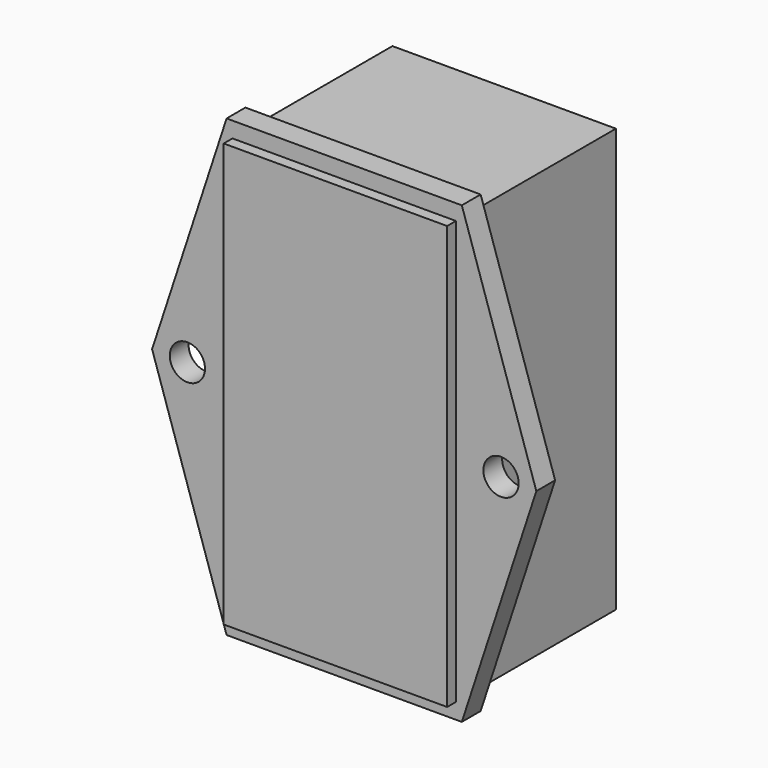
from build123d import *

# Parameters (mm, degrees)
F0_R          = 2.25
F1_DEPTH      = 3
F0_W          = 14.25
F0_H          = 54
F2_DEPTH      = 22.5
F2_DEPTH_BACK = 4.4


with BuildPart() as f1:
    # F0 (on Front) → F1 (new body)
    with BuildSketch(Plane.XZ):
        Polygon((15, 29), (-15, 29), (-24.5, 0), (-15, -29), (15, -29), (24.5, 0), align=None)
        with Locations((-20, 0)):
            Circle(F0_R, mode=Mode.SUBTRACT)
        Polygon((-14.25, 27), (0, 27), (14.25, 27), (14.25, -27), (0, -27), (-14.25, -27), align=None, mode=Mode.SUBTRACT)
        with Locations((20, 0.1457222243)):
            Circle(F0_R, mode=Mode.SUBTRACT)
    extrude(amount=F1_DEPTH)

    # F0 (on Front) → F2 (join, two sides)
    with BuildSketch(Plane.XZ) as f2_sk:
        with Locations((-7.125, 0)):
            Rectangle(F0_W, F0_H)
        with Locations((7.125, 0)):
            Rectangle(F0_W, F0_H)
    extrude(amount=-F2_DEPTH)
    extrude(f2_sk.sketch, amount=F2_DEPTH_BACK)


solid = f1.part
